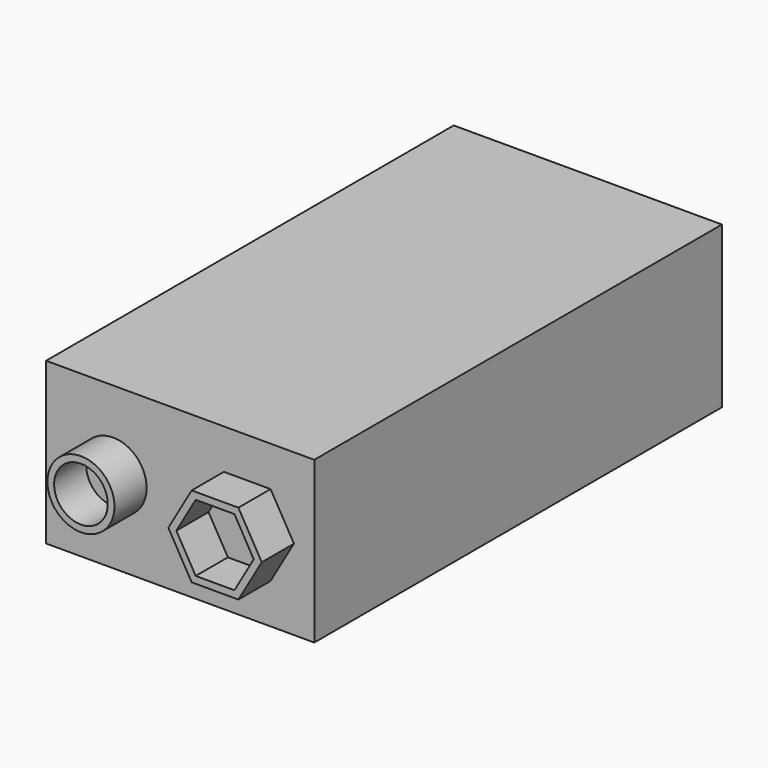
from build123d import *

# Parameters (mm, degrees)
F0_W     = 25.4
F0_H     = 48.26
F1_DEPTH = 15.24
F2_R     = 3.175
F2_R_2   = 2.54
F3_DEPTH = 3.81
F5_DEPTH = 3.81


with BuildPart() as f1:
    # F0 (on Top) → F1 (new body)
    with BuildSketch(Plane.XY):
        with Locations((12.7, 24.13)):
            Rectangle(F0_W, F0_H)
    extrude(amount=F1_DEPTH)

    # F2 (on face) → F3 (join)
    with BuildSketch(Plane.XZ):
        with Locations((6.349094, 7.727245)):
            Circle(F2_R)
        with Locations((6.349094, 7.727245)):
            Circle(F2_R_2, mode=Mode.SUBTRACT)
    extrude(amount=F3_DEPTH)

    # F4 (on face) → F5 (join)
    with BuildSketch(Plane.XZ):
        Polygon((23.473546, 7.62), (21.261773, 11.450903), (16.838227, 11.450903), (14.626454, 7.62), (16.838227, 3.789097), (21.261773, 3.789097), align=None)
        Polygon((22.716174, 7.62), (20.883087, 4.445), (17.216913, 4.445), (15.383826, 7.62), (17.216913, 10.795), (20.883087, 10.795), align=None, mode=Mode.SUBTRACT)
    extrude(amount=F5_DEPTH)


solid = f1.part
